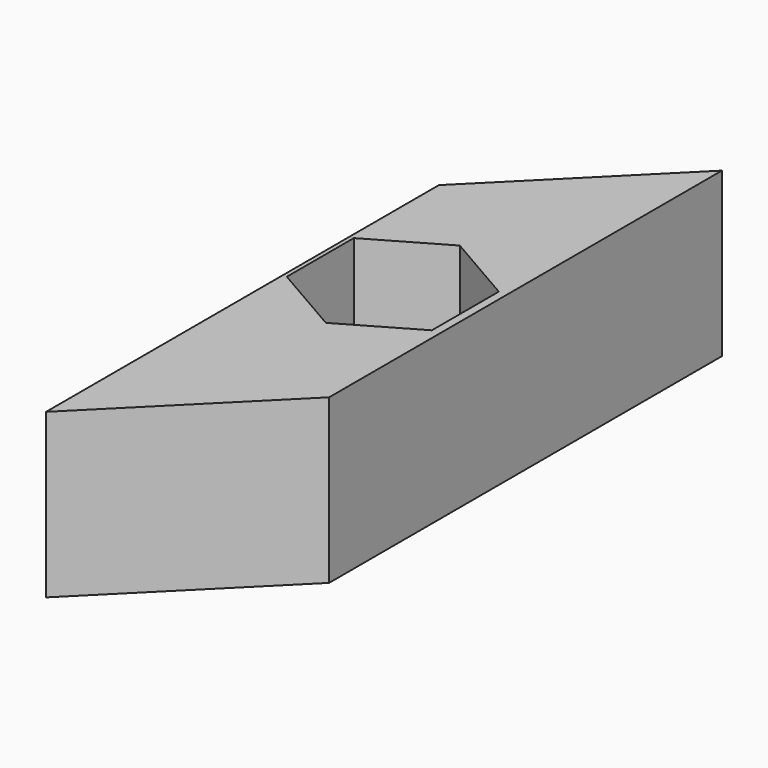
from build123d import *

# Parameters (mm, degrees)
F1_DEPTH = 8
F3_DEPTH = 4
F4_R     = 2.25
F5_DEPTH = 25


with BuildPart() as f1:
    # F0 (on Top) → F1 (new body)
    with BuildSketch(Plane.XY):
        Polygon((0, 24.041631), (0, 0), (7.7, 7.7), (7.7, 31.741631), align=None)
    extrude(amount=F1_DEPTH)

    # F2 (on face) → F3 (cut)
    with BuildSketch(Plane.XY.offset(8)):
        Polygon((3.75, 12.435577), (7.3, 14.485171), (7.3, 18.584358), (3.75, 20.633951), (0.2, 18.584358), (0.2, 14.485171), align=None)
    extrude(amount=-F3_DEPTH, mode=Mode.SUBTRACT)

    # F4 (on face) → F5 (cut)
    with BuildSketch(Plane.XY.offset(4)):
        with Locations((3.8, 16.534764)):
            Circle(F4_R)
    extrude(amount=-F5_DEPTH, mode=Mode.SUBTRACT)


solid = f1.part
